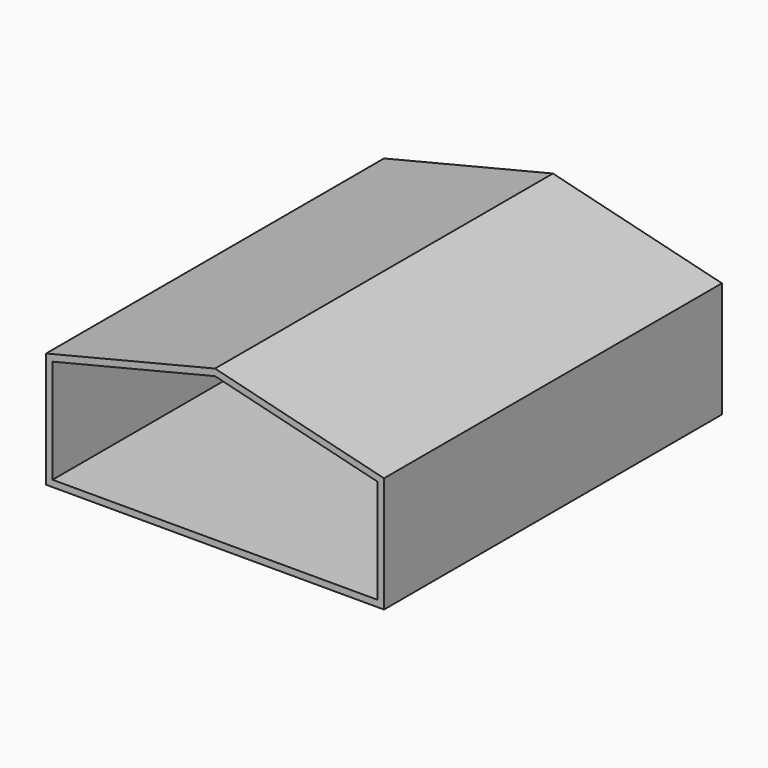
from build123d import *

# Parameters (mm, degrees)
F1_DEPTH = 152.4
F2_DEPTH = 9753.6


with BuildPart() as f1:
    # F0 (on Front) → F1 (new body)
    with BuildSketch(Plane.XZ):
        Polygon((7772.4, 2557.77589), (3810, 3535.16789), (-152.4, 2557.77589), (-152.4, -152.4), (7772.4, -152.4), align=None)
        Polygon((7620, 0), (0, 0), (0, 2438.4), (3810, 3378.2), (7620, 2438.4), align=None, mode=Mode.SUBTRACT)
        Polygon((0, 2438.4), (0, 0), (7620, 0), (7620, 2438.4), (3810, 3378.2), align=None)
    extrude(amount=-F1_DEPTH)

    # F0 (on Front) → F2 (join)
    with BuildSketch(Plane.XZ):
        Polygon((7772.4, 2557.77589), (3810, 3535.16789), (-152.4, 2557.77589), (-152.4, -152.4), (7772.4, -152.4), align=None)
        Polygon((7620, 0), (0, 0), (0, 2438.4), (3810, 3378.2), (7620, 2438.4), align=None, mode=Mode.SUBTRACT)
    extrude(amount=F2_DEPTH)


solid = f1.part
